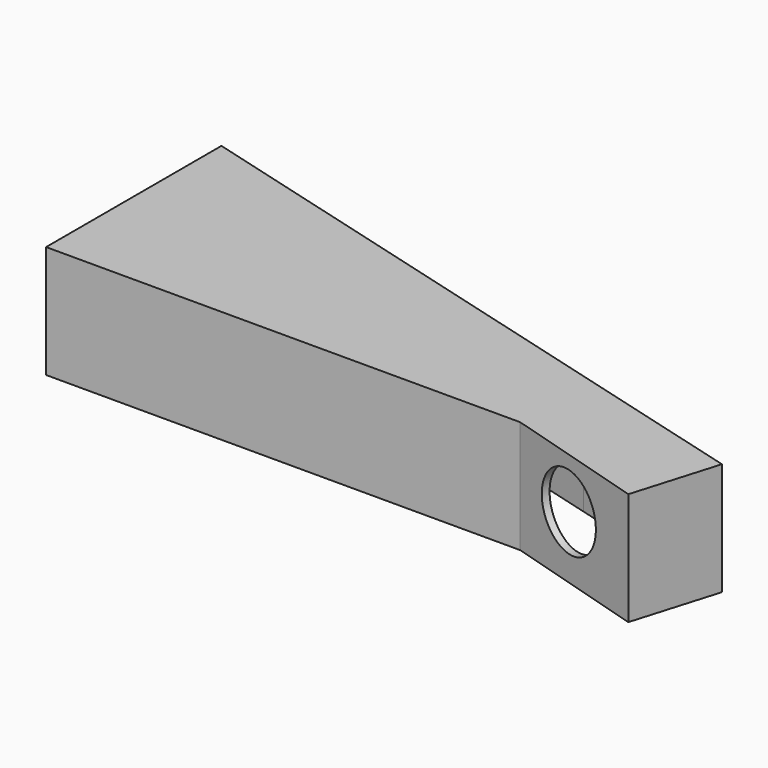
from build123d import *

# Parameters (mm, degrees)
F1_DEPTH = 38
F2_T     = -2.5
F3_R     = 12.5
F4_DEPTH = 5


with BuildPart() as f1:
    # F0 (on Top) → F1 (new body)
    with BuildSketch(Plane.XY):
        Polygon((216.3945465859, -59.4591971258), (159.9115557721, -43.9392436979), (0, 0), (0, -73.9392436979), (159.9115557721, -73.9392436979), (207.8314225052, -88.2111171656), align=None)
    extrude(amount=F1_DEPTH)

    # F2
    f2_openings = [f1.faces().sort_by_distance(p)[0] for p in [
        (87.639416, -49.571978, 0),
    ]]
    offset(amount=F2_T, openings=f2_openings, kind=Kind.INTERSECTION)

    # F3 (on face) → F4 (cut)
    with BuildSketch(Plane(origin=(-7.1982832096, -24.1692706211, 0), x_dir=(0.9583973347, -0.2854374694, 0), z_dir=(-0.2854374694, -0.9583973347, 0))):
        with Locations((196.8638394408, 21)):
            Circle(F3_R)
    extrude(amount=-F4_DEPTH, mode=Mode.SUBTRACT)


solid = f1.part
